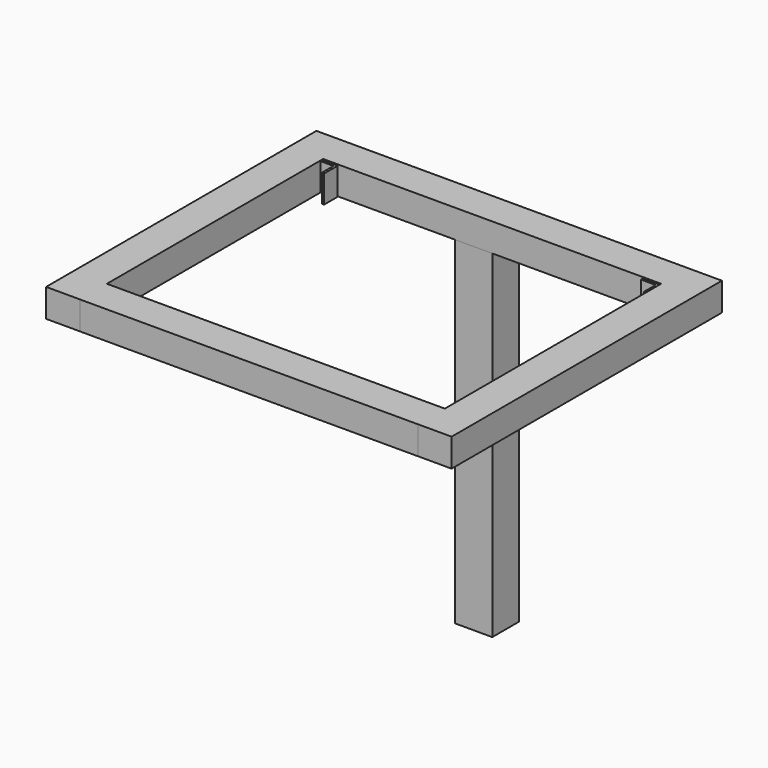
from build123d import *

# Parameters (mm, degrees)
F0_W     = 300
F0_H     = 30
F1_DEPTH = 25
F3_W     = 2
F3_H     = 2
F3_W_2   = 13
F3_H_2   = 13
F4_DEPTH = 24.3
F6_W     = 33.2169607282
F6_H     = 29.7688618302
F7_DEPTH = 300


with BuildPart() as f1:
    # F0 (on Top) → F1 (new body)
    with BuildSketch(Plane.XY):
        with Locations((0, 135)):
            Rectangle(F0_W, F0_H)
        Polygon((-150, -149.9615460634), (-150, -150), (0, -150), (0, -120), (-150, -120), align=None)
        Polygon((0, -120), (0, -150), (150, -150), (150, -149.9615460634), (150, -120), align=None)
        Polygon((150, -120), (150, -149.9615460634), (180, -149.9615460634), (180, 150), (150, 150), (150, 120), align=None)
        Polygon((-180, -149.9615460634), (-150, -149.9615460634), (-150, -120), (-150, 0), (-150, 120), (-150, 150), (-180, 150), align=None)
    extrude(amount=F1_DEPTH)

    # F6 (on face) → F7 (join)
    with BuildSketch(Plane(origin=(0, 0, 0), x_dir=(1, 0, 0), z_dir=(0, 0, -1))):
        with Locations((-16.6084803641, -135.0474767387)):
            Rectangle(F6_W, F6_H)
    extrude(amount=F7_DEPTH)


with BuildPart() as f4:
    # F3 (on face) → F4 (new body)
    with BuildSketch(Plane(origin=(0, 0, 0), x_dir=(1, 0, 0), z_dir=(0, 0, -1))):
        with Locations((148.3618719606, -118.3141226172)):
            Rectangle(F3_W, F3_H)
        with Locations((140.8618719606, -118.3141226172)):
            Rectangle(F3_W_2, F3_H)
        with Locations((148.3618719606, -110.8141226172)):
            Rectangle(F3_W, F3_H_2)
    extrude(amount=-F4_DEPTH)


with BuildPart() as f5_1:
    # F5: copy of F4
    add(f4.part.moved(Location((-286, 0, 0))))


solid = Compound([f1.part, f4.part, f5_1.part])
